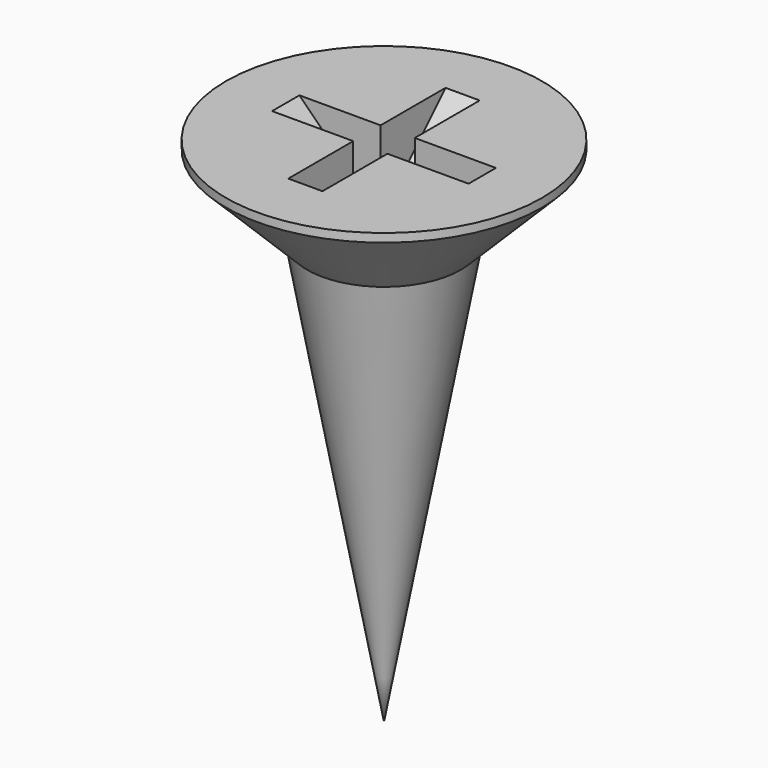
from build123d import *

# Parameters (mm, degrees)
POCKET043_DEPTH       = 0.2
POLARPATTERN006_COUNT = 2
POLARPATTERN006_ANGLE = 90


with BuildPart() as part:
    # Sketch075 → Revolution006 (revolve)
    with BuildSketch(Plane.XZ):
        Polygon((0, 0), (0, -6), (0.9, -1.05), (1.85, -0.1), (1.85, 0), align=None)
    revolve(axis=Axis((0, 0, 0), (0, 0, 1)))

    # Sketch076 → Pocket043 (cut, symmetric)
    with BuildSketch(Plane.XZ):
        Polygon((-1.15, 0), (0, -1.15), (1.15, 0), align=None)
    pocket043 = extrude(amount=POCKET043_DEPTH, both=True, mode=Mode.SUBTRACT)

    # PolarPattern006: Pocket043 ×2 about axis
    polarpattern006_axis = Axis((0, 0, 0), (0, 0, 1))
    for i in range(1, POLARPATTERN006_COUNT):
        add(pocket043.rotate(polarpattern006_axis, i * POLARPATTERN006_ANGLE / (POLARPATTERN006_COUNT - 1)), mode=Mode.SUBTRACT)


with BuildPart() as part_1:
    # Body015 placement: moved
    add(part.part.moved(Location((-7.8, 7.8, 6))))


solid = part_1.part
